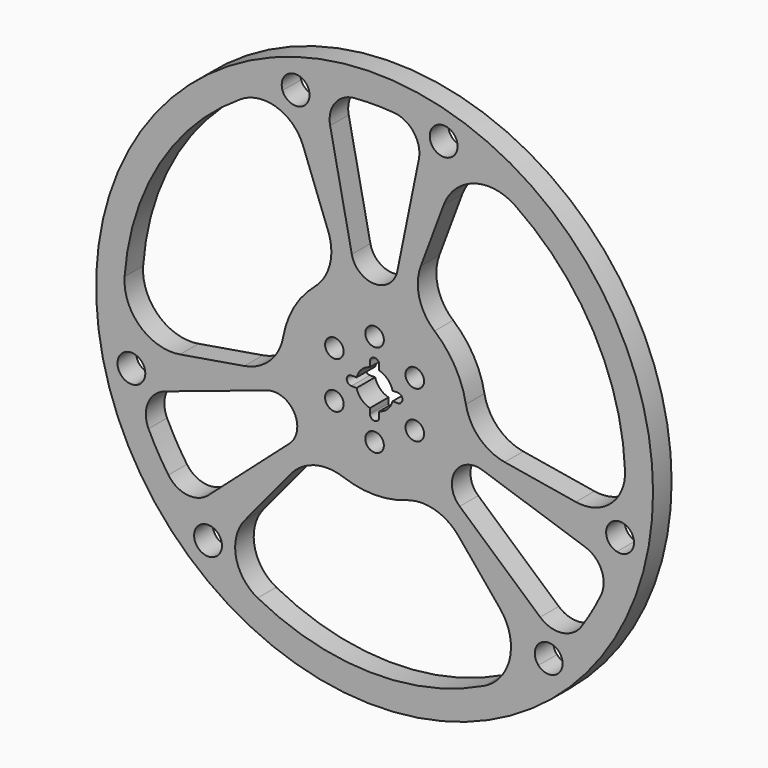
from build123d import *

# Parameters (mm, degrees)
F0_R     = 1524
F0_R_2   = 381
F0_R_3   = 50.8
F1_DEPTH = 127


with BuildPart() as f1:
    # F0 (on Front) → F1 (new body)
    with BuildSketch(Plane.XZ):
        Circle(F0_R)
        with BuildLine():
            ThreePointArc((-853.011011, -1074.085087), (-961.973171, -1082.003909), (-966.86221, -972.863828))
            ThreePointArc((-966.86221, -972.863828), (-883.272766, -954.21495), (-835.143004, -1025.056335))
            ThreePointArc((-835.143004, -1025.056335), (-839.749227, -1051.147925), (-853.011011, -1074.085087))
        make_face(mode=Mode.SUBTRACT)
        with BuildLine():
            Line((-710.305722, -861.669744), (-459.338097, -557.221669))
            ThreePointArc((-459.338097, -557.221669), (-328.018083, -472.144971), (-171.661693, -478.117416))
            ThreePointArc((-171.661693, -478.117416), (0, -508), (171.661693, -478.117416))
            ThreePointArc((171.661693, -478.117416), (328.018083, -472.144971), (459.338097, -557.221669))
            Line((459.338097, -557.221669), (686.800232, -833.155304))
            ThreePointArc((686.800232, -833.155304), (740.385327, -1054.562526), (599.56057, -1233.618127))
            ThreePointArc((599.56057, -1233.618127), (-22.517203, -1371.415158), (-639.735917, -1213.270174))
            ThreePointArc((-639.735917, -1213.270174), (-758.589145, -1054.242977), (-710.305722, -861.669744))
        make_face(mode=Mode.SUBTRACT)
        with BuildLine():
            ThreePointArc((-1128.390969, -779.756616), (-1186.403746, -688.282436), (-1237.017286, -592.515649))
            ThreePointArc((-1237.017286, -592.515649), (-1239.867736, -467.974421), (-1148.38407, -383.420407))
            Line((-1148.38407, -383.420407), (-590.146126, -197.036927))
            ThreePointArc((-590.146126, -197.036927), (-439.940905, -254), (-465.712047, -412.563073))
            Line((-465.712047, -412.563073), (-910.070621, -806.209621))
            ThreePointArc((-910.070621, -806.209621), (-1025.181346, -842.093847), (-1128.390969, -779.756616))
        make_face(mode=Mode.SUBTRACT)
        with BuildLine():
            ThreePointArc((-1310.376491, -405.216008), (-1404.794153, -350.25452), (-1347.231161, -257.4))
            ThreePointArc((-1347.231161, -257.4), (-1283.114681, -272.431083), (-1254.657618, -331.820072))
            ThreePointArc((-1254.657618, -331.820072), (-1270.165354, -377.894892), (-1310.376491, -405.216008))
        make_face(mode=Mode.SUBTRACT)
        with BuildLine():
            ThreePointArc((896.530519, -1038.03641), (899.860453, -931.832777), (1006.115602, -932.211325))
            ThreePointArc((1006.115602, -932.211325), (1023.041518, -957.122837), (1028.993421, -986.64647))
            ThreePointArc((1028.993421, -986.64647), (980.354325, -1057.687561), (896.530519, -1038.03641))
        make_face(mode=Mode.SUBTRACT)
        with BuildLine():
            ThreePointArc((1131.642247, -775.03057), (1025.211605, -839.769747), (906.243848, -802.819575))
            Line((906.243848, -802.819575), (465.712047, -412.563073))
            ThreePointArc((465.712047, -412.563073), (439.940905, -254), (590.146126, -197.036927))
            Line((590.146126, -197.036927), (1153.233323, -385.039467))
            ThreePointArc((1153.233323, -385.039467), (1241.865337, -466.786166), (1239.484523, -587.336937))
            ThreePointArc((1239.484523, -587.336937), (1189.271947, -683.314565), (1131.642247, -775.03057))
        make_face(mode=Mode.SUBTRACT)
        with BuildLine():
            ThreePointArc((1419.596328, -276.718026), (1390.711648, -336.448257), (1325.955894, -350.895322))
            ThreePointArc((1325.955894, -350.895322), (1268.763199, -261.344802), (1356.690477, -201.686662))
            ThreePointArc((1356.690477, -201.686662), (1401.789196, -227.761791), (1419.596328, -276.718026))
        make_face(mode=Mode.SUBTRACT)
        with BuildLine():
            ThreePointArc((-1368.124921, 97.574379), (-1176.421765, 705.208049), (-730.854834, 1160.662643))
            ThreePointArc((-730.854834, 1160.662643), (-533.706628, 1184.078959), (-391.075027, 1045.977672))
            Line((-391.075027, 1045.977672), (-252.899073, 676.409296))
            ThreePointArc((-252.899073, 676.409296), (-252.524553, 675.401228), (-252.154217, 674.391616))
            ThreePointArc((-252.154217, 674.391616), (-246.523627, 657.075147), (-242.122307, 639.406189))
            ThreePointArc((-242.122307, 639.406189), (-250.439944, 501.679675), (-328.230982, 387.722095))
            ThreePointArc((-328.230982, 387.722095), (-439.940905, 254), (-499.892674, 90.395321))
            ThreePointArc((-499.892674, 90.395321), (-572.89858, -47.999507), (-712.23717, -119.187626))
            Line((-712.23717, -119.187626), (-1064.933775, -178.208796))
            ThreePointArc((-1064.933775, -178.208796), (-1283.470601, -113.911239), (-1368.124921, 97.574379))
        make_face(mode=Mode.SUBTRACT)
        with BuildLine():
            ThreePointArc((-111.093554, 1367.093553), (-2.868201, 1371.597001), (105.375039, 1367.546219))
            ThreePointArc((105.375039, 1367.546219), (214.656131, 1307.744168), (242.140222, 1186.239982))
            Line((242.140222, 1186.239982), (124.434079, 609.6))
            ThreePointArc((124.434079, 609.6), (0, 508), (-124.434079, 609.6))
            Line((-124.434079, 609.6), (-243.162702, 1191.249088))
            ThreePointArc((-243.162702, 1191.249088), (-216.683991, 1308.880013), (-111.093554, 1367.093553))
        make_face(mode=Mode.SUBTRACT)
        with BuildLine():
            ThreePointArc((-355.853324, 1301.77436), (-418.852415, 1226.726536), (-503.679466, 1275.771749))
            ThreePointArc((-503.679466, 1275.771749), (-445.254233, 1376.822185), (-355.853324, 1301.77436))
        make_face(mode=Mode.SUBTRACT)
        Circle(F0_R_2, mode=Mode.SUBTRACT)
        with BuildLine():
            ThreePointArc((768.564352, 1136.043748), (1198.938967, 666.207109), (1370.590751, 52.607531))
            ThreePointArc((1370.590751, 52.607531), (1292.295773, -129.835982), (1101.380749, -184.307928))
            Line((1101.380749, -184.307928), (712.23717, -119.187626))
            ThreePointArc((712.23717, -119.187626), (572.89858, -47.999507), (499.892674, 90.395321))
            ThreePointArc((499.892674, 90.395321), (439.940905, 254), (328.230982, 387.722095))
            ThreePointArc((328.230982, 387.722095), (244.880498, 520.144478), (252.899073, 676.409296))
            Line((252.899073, 676.409296), (378.133543, 1011.364101))
            ThreePointArc((378.133543, 1011.364101), (543.085274, 1168.473765), (768.564352, 1136.043748))
        make_face(mode=Mode.SUBTRACT)
        with BuildLine():
            ThreePointArc((454.264197, 1318.466542), (453.368039, 1306.81444), (450.700641, 1295.43641))
            ThreePointArc((450.700641, 1295.43641), (310.911465, 1282.453342), (399.067764, 1391.714683))
            ThreePointArc((399.067764, 1391.714683), (438.920223, 1364.324847), (454.264197, 1318.466542))
        make_face(mode=Mode.SUBTRACT)
        Circle(F0_R_2)
        with Locations((-219.970453, -127)):
            Circle(F0_R_3, mode=Mode.SUBTRACT)
        with Locations((0, -254)):
            Circle(F0_R_3, mode=Mode.SUBTRACT)
        with Locations((219.970453, -127)):
            Circle(F0_R_3, mode=Mode.SUBTRACT)
        with Locations((-219.970453, 127)):
            Circle(F0_R_3, mode=Mode.SUBTRACT)
        with BuildLine():
            ThreePointArc((-98.373777, 25.4), (-71.842049, 71.842049), (-25.4, 98.373777))
            Line((-25.4, 98.373777), (-25.4, 127))
            ThreePointArc((-25.4, 127), (0, 152.4), (25.4, 127))
            Line((25.4, 127), (25.4, 98.373777))
            ThreePointArc((25.4, 98.373777), (71.842049, 71.842049), (98.373777, 25.4))
            Line((98.373777, 25.4), (127, 25.4))
            ThreePointArc((127, 25.4), (152.4, 0), (127, -25.4))
            Line((127, -25.4), (98.373777, -25.4))
            ThreePointArc((98.373777, -25.4), (71.842049, -71.842049), (25.4, -98.373777))
            Line((25.4, -98.373777), (25.4, -127))
            ThreePointArc((25.4, -127), (0, -152.4), (-25.4, -127))
            Line((-25.4, -127), (-25.4, -98.373777))
            ThreePointArc((-25.4, -98.373777), (-71.842049, -71.842049), (-98.373777, -25.4))
            Line((-98.373777, -25.4), (-127, -25.4))
            ThreePointArc((-127, -25.4), (-152.4, 0), (-127, 25.4))
            Line((-127, 25.4), (-98.373777, 25.4))
        make_face(mode=Mode.SUBTRACT)
        with Locations((219.970453, 127)):
            Circle(F0_R_3, mode=Mode.SUBTRACT)
        with Locations((0, 254)):
            Circle(F0_R_3, mode=Mode.SUBTRACT)
    extrude(amount=F1_DEPTH)


solid = f1.part
